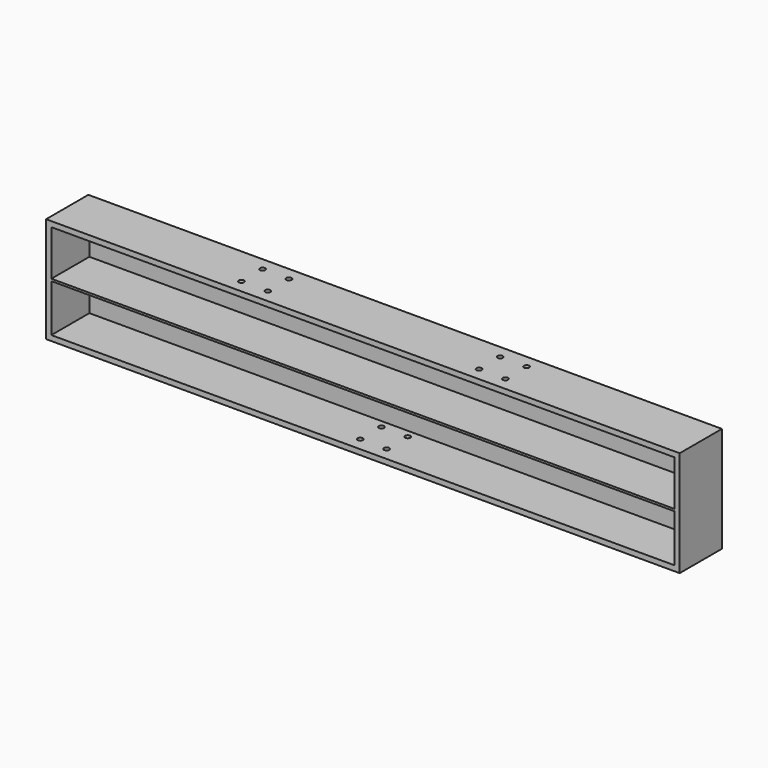
from build123d import *

# Parameters (mm, degrees)
F0_W     = 590
F0_H     = 45
F1_DEPTH = 5
F0_H_2   = 43
F0_H_3   = 5
F0_H_4   = 2
F2_DEPTH = 50
F4_D     = 5
F4_DEPTH = 12
F4_TIP   = 1.5021515476
F6_D     = 5
F6_DEPTH = 12
F6_TIP   = 1.5021515476


with BuildPart() as f1:
    # F0 (on Front) → F1 (new body)
    with BuildSketch(Plane.XZ):
        with Locations((99.536625368, 27.5)):
            Rectangle(F0_W, F0_H)
    extrude(amount=F1_DEPTH)


with BuildPart() as f1b:
    # F0 (on Front) → F1, piece 2 (new body)
    with BuildSketch(Plane.XZ):
        with Locations((99.536625368, 73.5)):
            Rectangle(F0_W, F0_H_2)
    extrude(amount=F1_DEPTH)


with BuildPart() as f2:
    # F0 (on Front) → F2 (new body)
    with BuildSketch(Plane.XZ):
        Polygon((-200.463374632, 100), (-200.463374632, 0), (-195.463374632, 0), (-195.463374632, 5), (-195.463374632, 50), (-195.463374632, 52), (-195.463374632, 95), (-195.463374632, 100), align=None)
        with Locations((99.536625368, 2.5)):
            Rectangle(F0_W, F0_H_3)
        with Locations((99.536625368, 51)):
            Rectangle(F0_W, F0_H_4)
        with Locations((99.536625368, 97.5)):
            Rectangle(F0_W, F0_H_3)
        Polygon((394.536625368, 5), (394.536625368, 0), (399.536625368, 0), (399.536625368, 100), (394.536625368, 100), (394.536625368, 95), (394.536625368, 52), (394.536625368, 50), align=None)
    extrude(amount=F2_DEPTH)

    # F4
    with Locations(Plane(origin=(0, 0, 0), x_dir=(1, 0, 0), z_dir=(0, 0, -1))):
        with Locations((87.036625368, 37.5), (112.036625368, 37.5), (112.036625368, 12.5), (87.036625368, 12.5)):
            Hole(F4_D / 2, depth=F4_DEPTH)
            with Locations((0, 0, -(F4_DEPTH + F4_TIP / 2))):  # 118° drill point
                Cone(0, F4_D / 2, F4_TIP, mode=Mode.SUBTRACT)

    # F6
    with Locations(Plane.XY.offset(100)):
        with Locations((199.536625368, -12.5), (224.536625368, -12.5), (224.536625368, -37.5), (199.536625368, -37.5), (-25.463374632, -12.5), (-0.463374632, -12.5), (-0.463374632, -37.5), (-25.463374632, -37.5)):
            Hole(F6_D / 2, depth=F6_DEPTH)
            with Locations((0, 0, -(F6_DEPTH + F6_TIP / 2))):  # 118° drill point
                Cone(0, F6_D / 2, F6_TIP, mode=Mode.SUBTRACT)


solid = Compound([f1.part, f1b.part, f2.part])
